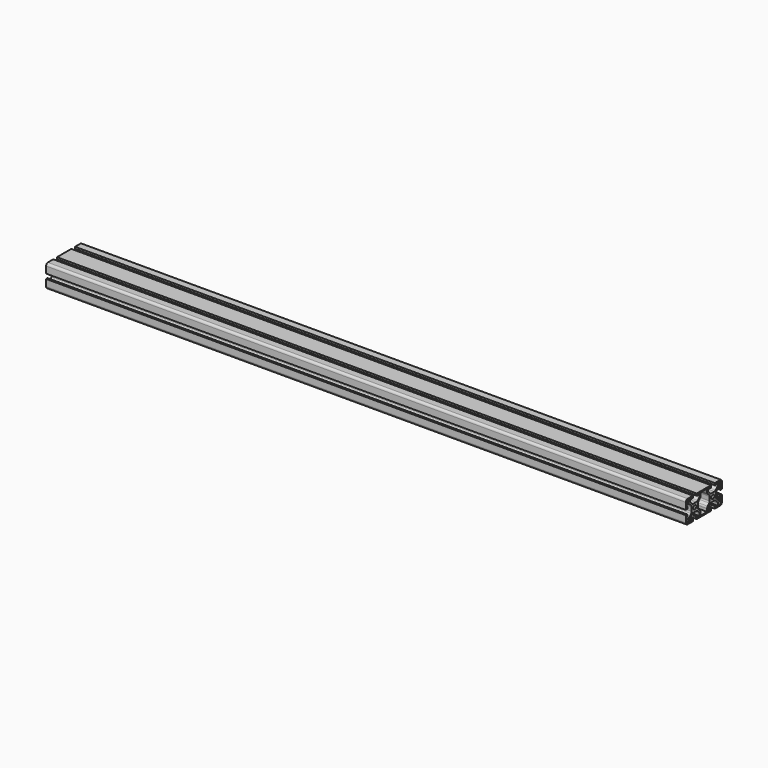
from build123d import *

# Parameters (mm, degrees)
F0_R     = 2.5
F1_DEPTH = 850


with BuildPart() as f1:
    # F0 (on Right) → F1 (new body)
    with BuildSketch(Plane.YZ):
        with BuildLine():
            Line((-3.1, 15), (-12, 15))
            ThreePointArc((-12, 15), (-14.12132, 14.12132), (-15, 12))
            Line((-15, 12), (-15, 3.1))
            Line((-15, 3.1), (-12.8, 3.1))
            ThreePointArc((-12.8, 3.1), (-12.234315, 3.334315), (-12, 3.9))
            Line((-12, 3.9), (-12, 5.6))
            Line((-12, 5.6), (-13.5, 5.6))
            Line((-13.5, 5.6), (-13.5, 8.15))
            Line((-13.5, 8.15), (-10.805, 8.15))
            ThreePointArc((-10.805, 8.15), (-9.65695, 7.921639), (-8.68368, 7.27132))
            Line((-8.68368, 7.27132), (-6.12868, 4.71632))
            ThreePointArc((-6.12868, 4.71632), (-5.478361, 3.74305), (-5.25, 2.595))
            Line((-5.25, 2.595), (-5.25, -2.595))
            ThreePointArc((-5.25, -2.595), (-5.478361, -3.74305), (-6.12868, -4.71632))
            Line((-6.12868, -4.71632), (-8.68368, -7.27132))
            ThreePointArc((-8.68368, -7.27132), (-9.65695, -7.921639), (-10.805, -8.15))
            Line((-10.805, -8.15), (-13.5, -8.15))
            Line((-13.5, -8.15), (-13.5, -5.6))
            Line((-13.5, -5.6), (-12, -5.6))
            Line((-12, -5.6), (-12, -3.9))
            ThreePointArc((-12, -3.9), (-12.234315, -3.334315), (-12.8, -3.1))
            Line((-12.8, -3.1), (-15, -3.1))
            Line((-15, -3.1), (-15, -12))
            ThreePointArc((-15, -12), (-14.12132, -14.12132), (-12, -15))
            Line((-12, -15), (-3.1, -15))
            Line((-3.1, -15), (-3.1, -12.8))
            ThreePointArc((-3.1, -12.8), (-3.334315, -12.234315), (-3.9, -12))
            Line((-3.9, -12), (-5.6, -12))
            Line((-5.6, -12), (-5.6, -13.5))
            Line((-5.6, -13.5), (-8.15, -13.5))
            Line((-8.15, -13.5), (-8.15, -10.805))
            ThreePointArc((-8.15, -10.805), (-7.921639, -9.65695), (-7.27132, -8.68368))
            Line((-7.27132, -8.68368), (-4.71632, -6.12868))
            ThreePointArc((-4.71632, -6.12868), (-3.74305, -5.478361), (-2.595, -5.25))
            Line((-2.595, -5.25), (2.595, -5.25))
            ThreePointArc((2.595, -5.25), (3.74305, -5.478361), (4.71632, -6.12868))
            Line((4.71632, -6.12868), (7.27132, -8.68368))
            ThreePointArc((7.27132, -8.68368), (7.921639, -9.65695), (8.15, -10.805))
            Line((8.15, -10.805), (8.15, -13.5))
            Line((8.15, -13.5), (5.6, -13.5))
            Line((5.6, -13.5), (5.6, -12))
            Line((5.6, -12), (3.9, -12))
            ThreePointArc((3.9, -12), (3.334315, -12.234315), (3.1, -12.8))
            Line((3.1, -12.8), (3.1, -15))
            Line((3.1, -15), (12, -15))
            Line((12, -15), (18, -15))
            Line((18, -15), (26.9, -15))
            Line((26.9, -15), (26.9, -12.8))
            ThreePointArc((26.9, -12.8), (26.665685, -12.234315), (26.1, -12))
            Line((26.1, -12), (24.4, -12))
            Line((24.4, -12), (24.4, -13.5))
            Line((24.4, -13.5), (21.85, -13.5))
            Line((21.85, -13.5), (21.85, -10.805))
            ThreePointArc((21.85, -10.805), (22.078361, -9.65695), (22.72868, -8.68368))
            Line((22.72868, -8.68368), (25.28368, -6.12868))
            ThreePointArc((25.28368, -6.12868), (26.25695, -5.478361), (27.405, -5.25))
            Line((27.405, -5.25), (32.595, -5.25))
            ThreePointArc((32.595, -5.25), (33.74305, -5.478361), (34.71632, -6.12868))
            Line((34.71632, -6.12868), (37.27132, -8.68368))
            ThreePointArc((37.27132, -8.68368), (37.921639, -9.65695), (38.15, -10.805))
            Line((38.15, -10.805), (38.15, -13.5))
            Line((38.15, -13.5), (35.6, -13.5))
            Line((35.6, -13.5), (35.6, -12))
            Line((35.6, -12), (33.9, -12))
            ThreePointArc((33.9, -12), (33.334315, -12.234315), (33.1, -12.8))
            Line((33.1, -12.8), (33.1, -15))
            Line((33.1, -15), (42, -15))
            ThreePointArc((42, -15), (44.12132, -14.12132), (45, -12))
            Line((45, -12), (45, -3.1))
            Line((45, -3.1), (42.853195, -3.1))
            ThreePointArc((42.853195, -3.1), (42.28751, -3.334315), (42.053195, -3.9))
            Line((42.053195, -3.9), (42.053195, -5.6))
            Line((42.053195, -5.6), (43.5, -5.6))
            Line((43.5, -5.6), (43.5, -8.15))
            Line((43.5, -8.15), (40.805, -8.15))
            ThreePointArc((40.805, -8.15), (39.65695, -7.921639), (38.68368, -7.27132))
            Line((38.68368, -7.27132), (36.12868, -4.71632))
            ThreePointArc((36.12868, -4.71632), (35.478361, -3.74305), (35.25, -2.595))
            Line((35.25, -2.595), (35.25, 2.595))
            ThreePointArc((35.25, 2.595), (35.478361, 3.74305), (36.12868, 4.71632))
            Line((36.12868, 4.71632), (38.68405, 7.271691))
            ThreePointArc((38.68405, 7.271691), (39.635582, 7.912904), (40.758236, 8.15))
            Line((40.758236, 8.15), (43.5, 8.15))
            Line((43.5, 8.15), (43.5, 5.591972))
            Line((43.5, 5.591972), (42, 5.591972))
            Line((42, 5.591972), (42, 3.9))
            ThreePointArc((42, 3.9), (42.234315, 3.334315), (42.8, 3.1))
            Line((42.8, 3.1), (45, 3.1))
            Line((45, 3.1), (45, 12))
            ThreePointArc((45, 12), (44.12132, 14.12132), (42, 15))
            Line((42, 15), (33.1, 15))
            Line((33.1, 15), (33.1, 12.8))
            ThreePointArc((33.1, 12.8), (33.334315, 12.234315), (33.9, 12))
            Line((33.9, 12), (35.6, 12))
            Line((35.6, 12), (35.6, 13.5))
            Line((35.6, 13.5), (38.15, 13.5))
            Line((38.15, 13.5), (38.15, 10.805))
            ThreePointArc((38.15, 10.805), (37.921639, 9.65695), (37.27132, 8.68368))
            Line((37.27132, 8.68368), (34.71632, 6.12868))
            ThreePointArc((34.71632, 6.12868), (33.74305, 5.478361), (32.595, 5.25))
            Line((32.595, 5.25), (27.405, 5.25))
            ThreePointArc((27.405, 5.25), (26.25695, 5.478361), (25.28368, 6.12868))
            Line((25.28368, 6.12868), (22.72868, 8.68368))
            ThreePointArc((22.72868, 8.68368), (22.078361, 9.65695), (21.85, 10.805))
            Line((21.85, 10.805), (21.85, 13.5))
            Line((21.85, 13.5), (24.4, 13.5))
            Line((24.4, 13.5), (24.4, 12))
            Line((24.4, 12), (26.1, 12))
            ThreePointArc((26.1, 12), (26.665685, 12.234315), (26.9, 12.8))
            Line((26.9, 12.8), (26.9, 15))
            Line((26.9, 15), (18.489018, 15))
            Line((18.489018, 15), (18, 15))
            Line((18, 15), (12, 15))
            Line((12, 15), (3.1, 15))
            Line((3.1, 15), (3.1, 12.8))
            ThreePointArc((3.1, 12.8), (3.334315, 12.234315), (3.9, 12))
            Line((3.9, 12), (5.6, 12))
            Line((5.6, 12), (5.6, 13.5))
            Line((5.6, 13.5), (8.15, 13.5))
            Line((8.15, 13.5), (8.15, 10.805))
            ThreePointArc((8.15, 10.805), (7.921639, 9.65695), (7.27132, 8.68368))
            Line((7.27132, 8.68368), (4.71632, 6.12868))
            ThreePointArc((4.71632, 6.12868), (3.74305, 5.478361), (2.595, 5.25))
            Line((2.595, 5.25), (-2.595, 5.25))
            ThreePointArc((-2.595, 5.25), (-3.74305, 5.478361), (-4.71632, 6.12868))
            Line((-4.71632, 6.12868), (-7.27132, 8.68368))
            ThreePointArc((-7.27132, 8.68368), (-7.921639, 9.65695), (-8.15, 10.805))
            Line((-8.15, 10.805), (-8.15, 13.5))
            Line((-8.15, 13.5), (-5.6, 13.5))
            Line((-5.6, 13.5), (-5.6, 12))
            Line((-5.6, 12), (-3.9, 12))
            ThreePointArc((-3.9, 12), (-3.334315, 12.234315), (-3.1, 12.8))
            Line((-3.1, 12.8), (-3.1, 15))
        make_face()
        with BuildLine():
            ThreePointArc((-12, -13.5), (-13.06066, -13.06066), (-13.5, -12))
            Line((-13.5, -12), (-13.5, -9.65))
            Line((-13.5, -9.65), (-9.65, -9.65))
            Line((-9.65, -9.65), (-9.65, -13.5))
            Line((-9.65, -13.5), (-12, -13.5))
        make_face(mode=Mode.SUBTRACT)
        Circle(F0_R, mode=Mode.SUBTRACT)
        with BuildLine():
            Line((42, -13.5), (39.65, -13.5))
            Line((39.65, -13.5), (39.65, -9.65))
            Line((39.65, -9.65), (43.5, -9.65))
            Line((43.5, -9.65), (43.5, -12))
            ThreePointArc((43.5, -12), (43.06066, -13.06066), (42, -13.5))
        make_face(mode=Mode.SUBTRACT)
        with BuildLine():
            Line((20.35, -13.5), (9.65, -13.5))
            Line((9.65, -13.5), (9.65, -9.65))
            ThreePointArc((9.65, -9.65), (9.407635, -8.362839), (8.68368, -7.27132))
            Line((8.68368, -7.27132), (6.12868, -4.71632))
            ThreePointArc((6.12868, -4.71632), (5.478361, -3.74305), (5.25, -2.595))
            Line((5.25, -2.595), (5.25, 2.595))
            ThreePointArc((5.25, 2.595), (5.478361, 3.74305), (6.12868, 4.71632))
            Line((6.12868, 4.71632), (8.713914, 7.301555))
            ThreePointArc((8.713914, 7.301555), (9.406719, 8.338411), (9.65, 9.561466))
            Line((9.65, 9.561466), (9.65, 13.5))
            Line((9.65, 13.5), (20.35, 13.5))
            Line((20.35, 13.5), (20.35, 9.65))
            ThreePointArc((20.35, 9.65), (20.600801, 8.366266), (21.31632, 7.27132))
            Line((21.31632, 7.27132), (23.87132, 4.71632))
            ThreePointArc((23.87132, 4.71632), (24.521639, 3.74305), (24.75, 2.595))
            Line((24.75, 2.595), (24.75, -2.595))
            ThreePointArc((24.75, -2.595), (24.521639, -3.74305), (23.87132, -4.71632))
            Line((23.87132, -4.71632), (21.31632, -7.27132))
            ThreePointArc((21.31632, -7.27132), (20.600801, -8.366266), (20.35, -9.65))
            Line((20.35, -9.65), (20.35, -13.5))
        make_face(mode=Mode.SUBTRACT)
        with Locations((30, 0)):
            Circle(F0_R, mode=Mode.SUBTRACT)
        with BuildLine():
            ThreePointArc((-13.5, 12), (-13.06066, 13.06066), (-12, 13.5))
            Line((-12, 13.5), (-9.65, 13.5))
            Line((-9.65, 13.5), (-9.65, 9.65))
            Line((-9.65, 9.65), (-13.5, 9.65))
            Line((-13.5, 9.65), (-13.5, 12))
        make_face(mode=Mode.SUBTRACT)
        with BuildLine():
            ThreePointArc((42, 13.5), (43.06066, 13.06066), (43.5, 12))
            Line((43.5, 12), (43.5, 9.65))
            Line((43.5, 9.65), (39.65, 9.65))
            Line((39.65, 9.65), (39.65, 13.5))
            Line((39.65, 13.5), (42, 13.5))
        make_face(mode=Mode.SUBTRACT)
    extrude(amount=F1_DEPTH)


solid = f1.part
